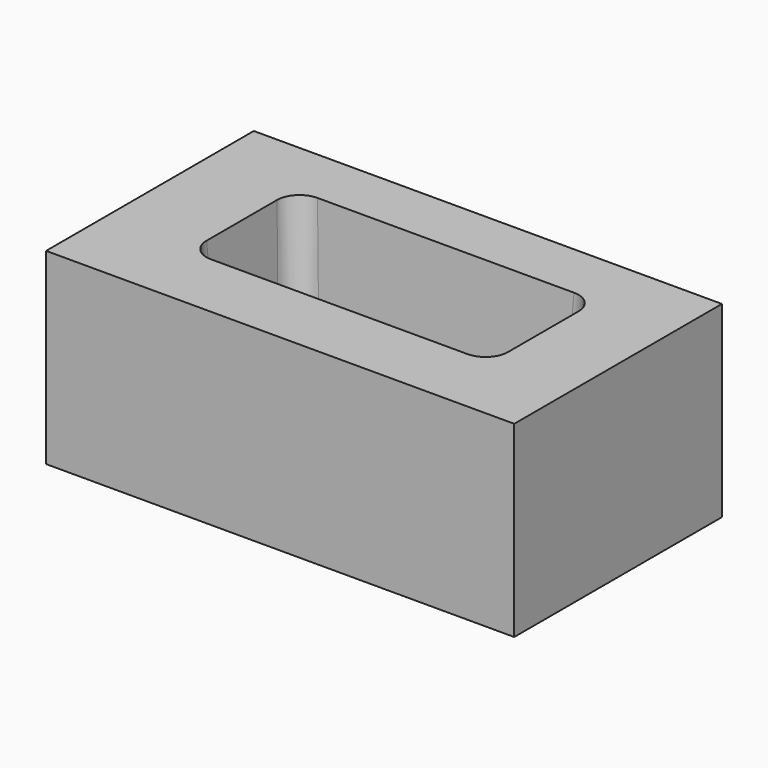
from build123d import *

# Parameters (mm, degrees)
F0_W     = 62.345456332
F0_H     = 34.5733892173
F1_DEPTH = 25
F2_W     = 40.1466805488
F2_H     = 17.7154000849
F3_DEPTH = 15
F3_TAPER = 3
F4_R     = 3


with BuildPart() as f1:
    # F0 (on Top) → F1 (new body)
    with BuildSketch(Plane.XY):
        with Locations((0, -0.1889253035)):
            Rectangle(F0_W, F0_H)
    extrude(amount=-F1_DEPTH)

    # F2 (on face) → F3 (cut)
    with BuildSketch(Plane.XY):
        with Locations((0.5009016022, 0.604307279)):
            Rectangle(F2_W, F2_H)
    extrude(amount=-F3_DEPTH, taper=F3_TAPER, mode=Mode.SUBTRACT)

    # F4
    f4_edges = [f1.edges().sort_by_distance(p)[0] for p in [
        (-19.17938, 9.068949, -7.5),
        (-19.17938, -7.860334, -7.5),
        (20.181184, 9.068949, -7.5),
        (20.181184, -7.860334, -7.5),
    ]]
    fillet(f4_edges, radius=F4_R)


solid = f1.part
